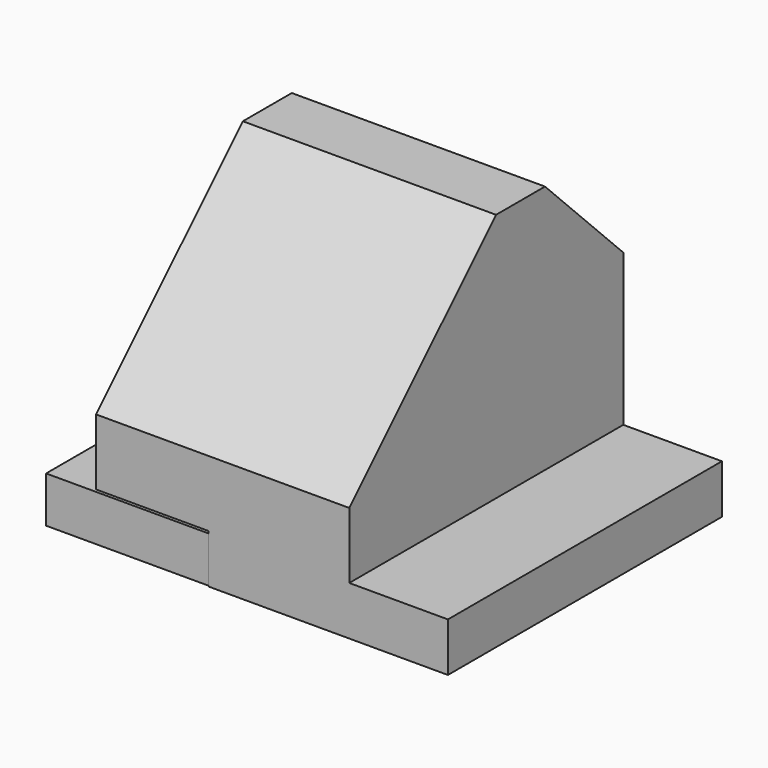
from build123d import *

# Parameters (mm, degrees)
F1_DEPTH = 114.935
F3_DEPTH = 92.075
F0_W     = 280
F0_H     = 40
F4_DEPTH = 195.58
F2_W     = 279.510707
F2_H     = 37.612499
F5_DEPTH = 133.35


with BuildPart() as f1:
    # F0 (on Right) → F1 (new body)
    with BuildSketch(Plane.YZ):
        Polygon((-129.108052, 51.825723), (-129.108052, -2.174277), (150.891948, -2.174277), (150.891948, 121.825723), (70.891948, 201.825723), (20.891948, 201.825723), align=None)
    extrude(amount=F1_DEPTH)

    # F0 (on Right) → F3 (join)
    with BuildSketch(Plane.YZ):
        Polygon((-129.108052, 51.825723), (-129.108052, -2.174277), (150.891948, -2.174277), (150.891948, 121.825723), (70.891948, 201.825723), (20.891948, 201.825723), align=None)
    extrude(amount=-F3_DEPTH)

    # F0 (on Right) → F4 (join)
    with BuildSketch(Plane.YZ):
        with Locations((10.891948, -22.174277)):
            Rectangle(F0_W, F0_H)
    extrude(amount=F4_DEPTH)

    # F2 (on Right) → F5 (join)
    with BuildSketch(Plane.YZ):
        with Locations((11.174976, -23.099343)):
            Rectangle(F2_W, F2_H)
    extrude(amount=-F5_DEPTH)


solid = f1.part
